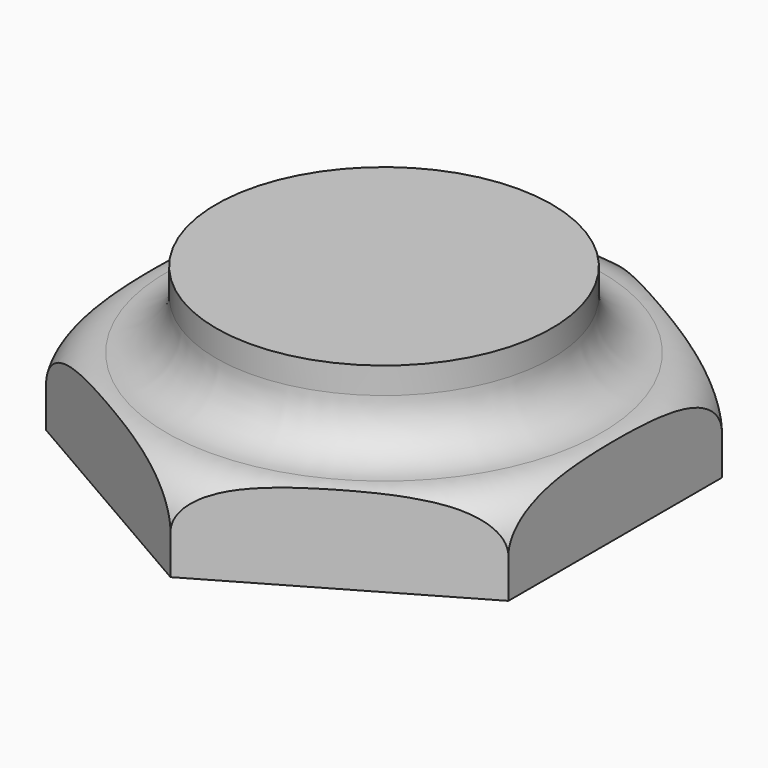
from build123d import *

# Parameters (mm, degrees)
F1_DEPTH = 25


with BuildPart() as f1:
    # F0 (on Top) → F1 (new body)
    with BuildSketch(Plane.XY):
        Polygon((-35, 20.207259), (-35, -20.207259), (0, -40.414519), (35, -20.207259), (35, 20.207259), (0, 40.414519), align=None)
    extrude(amount=F1_DEPTH)

    # F2 (on Right) → F4 (revolve, cut)
    with BuildSketch(Plane.YZ):
        with BuildLine():
            ThreePointArc((32.914519, 13.5), (38.21782, 11.303301), (40.414519, 6))
            Line((40.414519, 6), (40.414519, 25))
            Line((40.414519, 25), (25.414519, 25))
            Line((25.414519, 25), (25.414519, 21))
            ThreePointArc((25.414519, 21), (27.611218, 15.696699), (32.914519, 13.5))
        make_face()
    revolve(axis=Axis((0, 0, 12.483418), (0, 0, 1)), mode=Mode.SUBTRACT)


solid = f1.part
